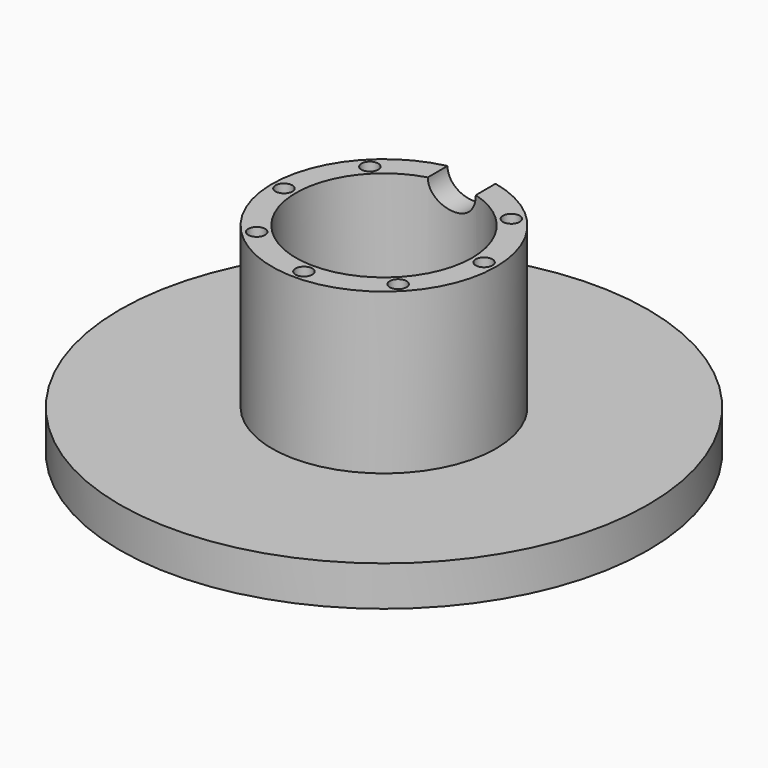
from build123d import *

# Parameters (mm, degrees)
F0_R     = 14
F0_R_2   = 11
F1_DEPTH = 25
F0_R_3   = 33
F2_DEPTH = 5
F3_R     = 3
F4_DEPTH = 25
F6_R     = 1.05
F7_DEPTH = 2


with BuildPart() as f1:
    # F0 (on Top) → F1 (new body)
    with BuildSketch(Plane.XY):
        Circle(F0_R)
        Circle(F0_R_2, mode=Mode.SUBTRACT)
    extrude(amount=F1_DEPTH)

    # F0 (on Top) → F2 (join)
    with BuildSketch(Plane.XY):
        Circle(F0_R_3)
        Circle(F0_R, mode=Mode.SUBTRACT)
    extrude(amount=F2_DEPTH)

    # F3 (on Front) → F4 (cut)
    with BuildSketch(Plane.XZ):
        with Locations((0, 25)):
            Circle(F3_R)
    extrude(amount=-F4_DEPTH, mode=Mode.SUBTRACT)

    # F6 (on offset) → F7 (cut)
    with BuildSketch(Plane.XY.offset(25)):
        with Locations((-8.8388347648, 8.8388347648)):
            Circle(F6_R)
        with Locations((8.8388347648, 8.8388347648)):
            Circle(F6_R)
        with Locations((12.5, 0)):
            Circle(F6_R)
        with Locations((8.8388347648, -8.8388347648)):
            Circle(F6_R)
        with Locations((0, -12.5)):
            Circle(F6_R)
        with Locations((-8.8388347648, -8.8388347648)):
            Circle(F6_R)
        with Locations((-12.5, 0)):
            Circle(F6_R)
    extrude(amount=-F7_DEPTH, mode=Mode.SUBTRACT)


solid = f1.part
